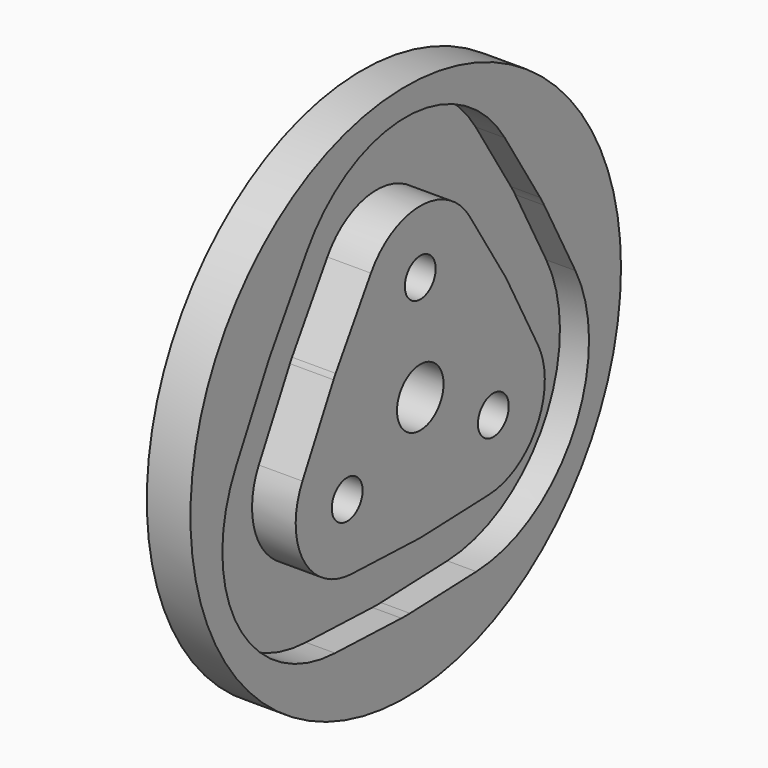
from build123d import *

# Parameters (mm, degrees)
F0_R     = 37
F0_R_2   = 2.65
F0_R_3   = 4
F1_DEPTH = 6
F2_DEPTH = 4
F3_DEPTH = 2
F4_SIZE2 = 2.3
F4_SIZE  = 5
F5_R     = 1.3130068335
F6_DEPTH = 1


with BuildPart() as f1:
    # F0 (on Right) → F1 (new body)
    with BuildSketch(Plane.YZ):
        Circle(F0_R)
        with BuildLine():
            Line((-23.0952370323, 14.180454946), (-17.0328632471, 23.8484731203))
            ThreePointArc((-17.0328632471, 23.8484731203), (0.0002590164, 33.2703478915), (17.0295377344, 23.8415279974))
            Line((17.0295377344, 23.8415279974), (23.0899184639, 14.167925942))
            ThreePointArc((23.0899184639, 14.167925942), (23.4636524397, 13.5467460522), (23.8147430167, 12.9124929901))
            Line((23.8147430167, 12.9124929901), (29.162137778, 2.827248294))
            ThreePointArc((29.162137778, 2.827248294), (28.813095975, -16.6349496309), (12.1369519401, -26.6751288313))
            Line((12.1369519401, -26.6751288313), (0.7330157043, -27.0912894495))
            ThreePointArc((0.7330157043, -27.0912894495), (0, -27.1046598669), (-0.7330157043, -27.0912894495))
            Line((-0.7330157043, -27.0912894495), (-12.1441739659, -26.6748652799))
            ThreePointArc((-12.1441739659, -26.6748652799), (-28.8182692269, -16.6382354957), (-29.1731979579, 2.8202694775))
            Line((-29.1731979579, 2.8202694775), (-23.8282527367, 12.9108345034))
            ThreePointArc((-23.8282527367, 12.9108345034), (-23.4733240056, 13.5523299334), (-23.0952370323, 14.180454946))
        make_face(mode=Mode.SUBTRACT)
        with BuildLine():
            ThreePointArc((17.0295377344, 23.8415279974), (0.0002590164, 33.2703478915), (-17.0328632471, 23.8484731203))
            Line((-17.0328632471, 23.8484731203), (-23.0952370323, 14.180454946))
            ThreePointArc((-23.0952370323, 14.180454946), (-23.4733240056, 13.5523299334), (-23.8282527367, 12.9108345034))
            Line((-23.8282527367, 12.9108345034), (-29.1731979579, 2.8202694775))
            ThreePointArc((-29.1731979579, 2.8202694775), (-28.8182692269, -16.6382354957), (-12.1441739659, -26.6748652799))
            Line((-12.1441739659, -26.6748652799), (-0.7330157043, -27.0912894495))
            ThreePointArc((-0.7330157043, -27.0912894495), (0, -27.1046598669), (0.7330157043, -27.0912894495))
            Line((0.7330157043, -27.0912894495), (12.1369519401, -26.6751288313))
            ThreePointArc((12.1369519401, -26.6751288313), (28.813095975, -16.6349496309), (29.162137778, 2.827248294))
            Line((29.162137778, 2.827248294), (23.8147430167, 12.9124929901))
            ThreePointArc((23.8147430167, 12.9124929901), (23.4636524397, 13.5467460522), (23.0899184639, 14.167925942))
            Line((23.0899184639, 14.167925942), (17.0295377344, 23.8415279974))
        make_face()
        with BuildLine():
            Line((-14.5383641102, 8.8148297318), (-8.4759903249, 18.482847906))
            ThreePointArc((-8.4759903249, 18.482847906), (-0.0018003141, 23.1703476982), (8.4704774851, 18.4793926211))
            Line((8.4704774851, 18.4793926211), (14.5308582146, 8.8057905657))
            ThreePointArc((14.5308582146, 8.8057905657), (14.7167955123, 8.4967458506), (14.8914674376, 8.1811970698))
            Line((14.8914674376, 8.1811970698), (20.2388621989, -1.9040476263))
            ThreePointArc((20.2388621989, -1.9040476263), (20.0652095641, -11.5867329668), (11.7686206585, -16.5818468966))
            Line((11.7686206585, -16.5818468966), (0.3646844227, -16.9980075148))
            ThreePointArc((0.3646844227, -16.9980075148), (0, -17.0046594636), (-0.3646844227, -16.9980075148))
            Line((-0.3646844227, -16.9980075148), (-11.7758426843, -16.5815833453))
            ThreePointArc((-11.7758426843, -16.5815833453), (-20.0714122995, -11.5882352941), (-20.2479937541, -1.9073872429))
            Line((-20.2479937541, -1.9073872429), (-14.9030485329, 8.183177783))
            ThreePointArc((-14.9030485329, 8.183177783), (-14.7264670782, 8.5023297318), (-14.5383641102, 8.8148297318))
        make_face(mode=Mode.SUBTRACT)
        with BuildLine():
            ThreePointArc((8.4704774851, 18.4793926211), (-0.0018003141, 23.1703476982), (-8.4759903249, 18.482847906))
            Line((-8.4759903249, 18.482847906), (-14.5383641102, 8.8148297318))
            ThreePointArc((-14.5383641102, 8.8148297318), (-14.7264670782, 8.5023297318), (-14.9030485329, 8.183177783))
            Line((-14.9030485329, 8.183177783), (-20.2479937541, -1.9073872429))
            ThreePointArc((-20.2479937541, -1.9073872429), (-20.0714122995, -11.5882352941), (-11.7758426843, -16.5815833453))
            Line((-11.7758426843, -16.5815833453), (-0.3646844227, -16.9980075148))
            ThreePointArc((-0.3646844227, -16.9980075148), (0, -17.0046594636), (0.3646844227, -16.9980075148))
            Line((0.3646844227, -16.9980075148), (11.7686206585, -16.5818468966))
            ThreePointArc((11.7686206585, -16.5818468966), (20.0652095641, -11.5867329668), (20.2388621989, -1.9040476263))
            Line((20.2388621989, -1.9040476263), (14.8914674376, 8.1811970698))
            ThreePointArc((14.8914674376, 8.1811970698), (14.7167955123, 8.4967458506), (14.5308582146, 8.8057905657))
            Line((14.5308582146, 8.8057905657), (8.4704774851, 18.4793926211))
        make_face()
        with Locations((-12.5573683549, -7.25)):
            Circle(F0_R_2, mode=Mode.SUBTRACT)
        with Locations((12.5573683549, -7.25)):
            Circle(F0_R_2, mode=Mode.SUBTRACT)
        Circle(F0_R_3, mode=Mode.SUBTRACT)
        with Locations((0, 14.5)):
            Circle(F0_R_2, mode=Mode.SUBTRACT)
    extrude(amount=-F1_DEPTH)

    # F0 (on Right) → F2 (cut)
    with BuildSketch(Plane.YZ):
        with BuildLine():
            ThreePointArc((17.0295377344, 23.8415279974), (0.0002590164, 33.2703478915), (-17.0328632471, 23.8484731203))
            Line((-17.0328632471, 23.8484731203), (-23.0952370323, 14.180454946))
            ThreePointArc((-23.0952370323, 14.180454946), (-23.4733240056, 13.5523299334), (-23.8282527367, 12.9108345034))
            Line((-23.8282527367, 12.9108345034), (-29.1731979579, 2.8202694775))
            ThreePointArc((-29.1731979579, 2.8202694775), (-28.8182692269, -16.6382354957), (-12.1441739659, -26.6748652799))
            Line((-12.1441739659, -26.6748652799), (-0.7330157043, -27.0912894495))
            ThreePointArc((-0.7330157043, -27.0912894495), (0, -27.1046598669), (0.7330157043, -27.0912894495))
            Line((0.7330157043, -27.0912894495), (12.1369519401, -26.6751288313))
            ThreePointArc((12.1369519401, -26.6751288313), (28.813095975, -16.6349496309), (29.162137778, 2.827248294))
            Line((29.162137778, 2.827248294), (23.8147430167, 12.9124929901))
            ThreePointArc((23.8147430167, 12.9124929901), (23.4636524397, 13.5467460522), (23.0899184639, 14.167925942))
            Line((23.0899184639, 14.167925942), (17.0295377344, 23.8415279974))
        make_face()
        with BuildLine():
            Line((-14.5383641102, 8.8148297318), (-8.4759903249, 18.482847906))
            ThreePointArc((-8.4759903249, 18.482847906), (-0.0018003141, 23.1703476982), (8.4704774851, 18.4793926211))
            Line((8.4704774851, 18.4793926211), (14.5308582146, 8.8057905657))
            ThreePointArc((14.5308582146, 8.8057905657), (14.7167955123, 8.4967458506), (14.8914674376, 8.1811970698))
            Line((14.8914674376, 8.1811970698), (20.2388621989, -1.9040476263))
            ThreePointArc((20.2388621989, -1.9040476263), (20.0652095641, -11.5867329668), (11.7686206585, -16.5818468966))
            Line((11.7686206585, -16.5818468966), (0.3646844227, -16.9980075148))
            ThreePointArc((0.3646844227, -16.9980075148), (0, -17.0046594636), (-0.3646844227, -16.9980075148))
            Line((-0.3646844227, -16.9980075148), (-11.7758426843, -16.5815833453))
            ThreePointArc((-11.7758426843, -16.5815833453), (-20.0714122995, -11.5882352941), (-20.2479937541, -1.9073872429))
            Line((-20.2479937541, -1.9073872429), (-14.9030485329, 8.183177783))
            ThreePointArc((-14.9030485329, 8.183177783), (-14.7264670782, 8.5023297318), (-14.5383641102, 8.8148297318))
        make_face(mode=Mode.SUBTRACT)
    extrude(amount=-F2_DEPTH, mode=Mode.SUBTRACT)

    # F3 (add): a face of the model
    f3_faces = [f1.faces().sort_by_distance(p)[0] for p in [
        (0, -6.0488520011, -16.2030604824),
    ]]
    extrude(f3_faces, amount=F3_DEPTH)

    # F4
    f4_edges = [f1.edges().sort_by_distance(p)[0] for p in [
        (-6, -2.65, 14.5),
        (-6, 9.907368, -7.25),
        (-6, -15.207368, -7.25),
    ]]
    f4_side = f1.faces().sort_by_distance((-6, -35.953482, 0))[0]
    chamfer(f4_edges, length=F4_SIZE, length2=F4_SIZE2, reference=f4_side)

    # F5 (on face) → F6 (cut)
    with BuildSketch(Plane(origin=(-6, 0, 0), x_dir=(0, -1, 0), z_dir=(-1, 0, 0))):
        with Locations((0, 25.6734099239)):
            Circle(F5_R)
    extrude(amount=-F6_DEPTH, mode=Mode.SUBTRACT)


solid = f1.part
